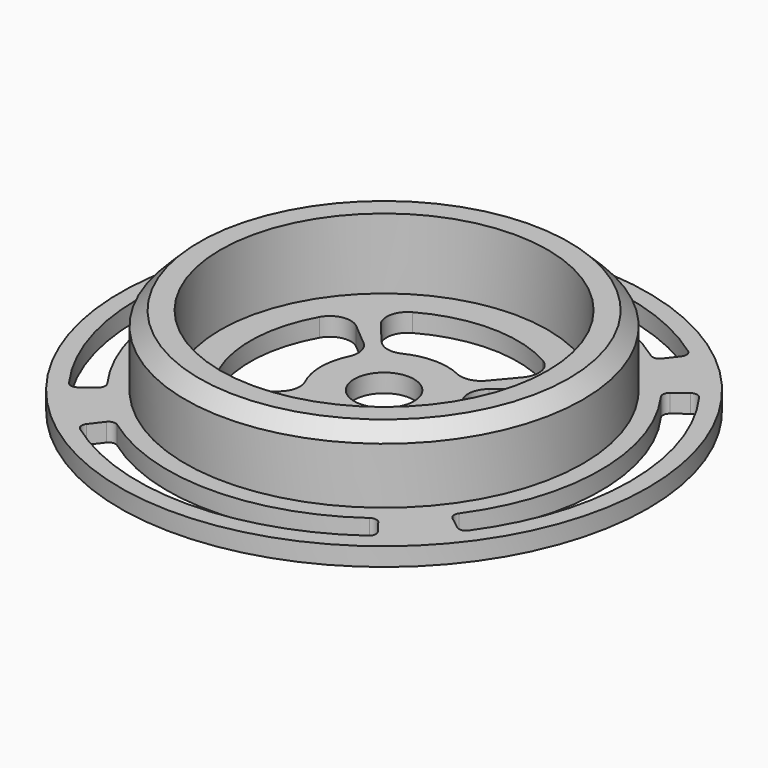
from build123d import *

# Parameters (mm, degrees)
F0_R      = 37.5
F0_R_2    = 23.25
F1_DEPTH  = 2.6
F2_R      = 28.25
F2_R_2    = 23.25
F3_DEPTH  = 10
F4_SIZE   = 2
F5_R      = 23.25
F5_R_2    = 4.25
F6_DEPTH  = 2.6
F8_DEPTH  = 2.601
F10_DEPTH = 2.601


with BuildPart() as f1:
    # F0 (on Top) → F1 (new body)
    with BuildSketch(Plane.XY):
        Circle(F0_R)
        Circle(F0_R_2, mode=Mode.SUBTRACT)
    extrude(amount=F1_DEPTH)

    # F2 (on face) → F3 (join)
    with BuildSketch(Plane.XY.offset(2.6)):
        Circle(F2_R)
        Circle(F2_R_2, mode=Mode.SUBTRACT)
    extrude(amount=F3_DEPTH)

    # F4
    f4_edges = [f1.edges().sort_by_distance(p)[0] for p in [
        (-28.25, 0, 12.6),
    ]]
    chamfer(f4_edges, length=F4_SIZE)

    # F5 (on Top) → F6 (join)
    with BuildSketch(Plane.XY):
        Circle(F5_R)
        Circle(F5_R_2, mode=Mode.SUBTRACT)
    extrude(amount=F6_DEPTH)

    # F7 (on face) → F8 (cut, through all)
    with BuildSketch(Plane.XY.offset(2.6)):
        with BuildLine():
            ThreePointArc((-3.877788, 8.121746), (0, 9), (3.877788, 8.121746))
            ThreePointArc((3.877788, 8.121746), (5.806341, 7.897177), (7.468517, 8.900632))
            Line((7.468517, 8.900632), (10.1022, 12.039333))
            ThreePointArc((10.1022, 12.039333), (10.754749, 14.509432), (9.267329, 16.586639))
            ThreePointArc((9.267329, 16.586639), (0, 19), (-9.267329, 16.586639))
            ThreePointArc((-9.267329, 16.586639), (-10.754749, 14.509432), (-10.1022, 12.039333))
            Line((-10.1022, 12.039333), (-7.468517, 8.900632))
            ThreePointArc((-7.468517, 8.900632), (-5.806341, 7.897177), (-3.877788, 8.121746))
        make_face()
        with BuildLine():
            Line((8.900632, -7.468517), (12.039333, -10.1022))
            ThreePointArc((12.039333, -10.1022), (14.509432, -10.754749), (16.586639, -9.267329))
            ThreePointArc((16.586639, -9.267329), (19, 0), (16.586639, 9.267329))
            ThreePointArc((16.586639, 9.267329), (14.509432, 10.754749), (12.039333, 10.1022))
            Line((12.039333, 10.1022), (8.900632, 7.468517))
            ThreePointArc((8.900632, 7.468517), (7.897177, 5.806341), (8.121746, 3.877788))
            ThreePointArc((8.121746, 3.877788), (9, 0), (8.121746, -3.877788))
            ThreePointArc((8.121746, -3.877788), (7.897177, -5.806341), (8.900632, -7.468517))
        make_face()
        with BuildLine():
            Line((-7.468517, -8.900632), (-10.1022, -12.039333))
            ThreePointArc((-10.1022, -12.039333), (-10.754749, -14.509432), (-9.267329, -16.586639))
            ThreePointArc((-9.267329, -16.586639), (0, -19), (9.267329, -16.586639))
            ThreePointArc((9.267329, -16.586639), (10.754749, -14.509432), (10.1022, -12.039333))
            Line((10.1022, -12.039333), (7.468517, -8.900632))
            ThreePointArc((7.468517, -8.900632), (5.806341, -7.897177), (3.877788, -8.121746))
            ThreePointArc((3.877788, -8.121746), (0, -9), (-3.877788, -8.121746))
            ThreePointArc((-3.877788, -8.121746), (-5.806341, -7.897177), (-7.468517, -8.900632))
        make_face()
        with BuildLine():
            Line((-8.900632, 7.468517), (-12.039333, 10.1022))
            ThreePointArc((-12.039333, 10.1022), (-14.509432, 10.754749), (-16.586639, 9.267329))
            ThreePointArc((-16.586639, 9.267329), (-19, 0), (-16.586639, -9.267329))
            ThreePointArc((-16.586639, -9.267329), (-14.509432, -10.754749), (-12.039333, -10.1022))
            Line((-12.039333, -10.1022), (-8.900632, -7.468517))
            ThreePointArc((-8.900632, -7.468517), (-7.897177, -5.806341), (-8.121746, -3.877788))
            ThreePointArc((-8.121746, -3.877788), (-9, 0), (-8.121746, 3.877788))
            ThreePointArc((-8.121746, 3.877788), (-7.897177, 5.806341), (-8.900632, 7.468517))
        make_face()
    extrude(amount=-F8_DEPTH, mode=Mode.SUBTRACT)

    # F9 (on face) → F10 (cut, through all)
    with BuildSketch(Plane.XY.offset(2.6)):
        with BuildLine():
            ThreePointArc((20.688934, 26.962344), (20.884999, 27.716199), (20.480745, 28.38202))
            ThreePointArc((20.480745, 28.38202), (0, 35), (-20.480745, 28.38202))
            ThreePointArc((-20.480745, 28.38202), (-20.884999, 27.716199), (-20.688934, 26.962344))
            Line((-20.688934, 26.962344), (-19.318586, 25.176472))
            ThreePointArc((-19.318586, 25.176472), (-18.671358, 24.795967), (-17.941761, 24.9731))
            ThreePointArc((-17.941761, 24.9731), (0, 30.75), (17.941761, 24.9731))
            ThreePointArc((17.941761, 24.9731), (18.671358, 24.795967), (19.318586, 25.176472))
            Line((19.318586, 25.176472), (20.688934, 26.962344))
        make_face()
        with BuildLine():
            ThreePointArc((26.962344, -20.688934), (27.716199, -20.884999), (28.38202, -20.480745))
            ThreePointArc((28.38202, -20.480745), (35, 0), (28.38202, 20.480745))
            ThreePointArc((28.38202, 20.480745), (27.716199, 20.884999), (26.962344, 20.688934))
            Line((26.962344, 20.688934), (25.176472, 19.318586))
            ThreePointArc((25.176472, 19.318586), (24.795967, 18.671358), (24.9731, 17.941761))
            ThreePointArc((24.9731, 17.941761), (30.75, 0), (24.9731, -17.941761))
            ThreePointArc((24.9731, -17.941761), (24.795967, -18.671358), (25.176472, -19.318586))
            Line((25.176472, -19.318586), (26.962344, -20.688934))
        make_face()
        with BuildLine():
            ThreePointArc((-20.688934, -26.962344), (-20.884999, -27.716199), (-20.480745, -28.38202))
            ThreePointArc((-20.480745, -28.38202), (0, -35), (20.480745, -28.38202))
            ThreePointArc((20.480745, -28.38202), (20.884999, -27.716199), (20.688934, -26.962344))
            Line((20.688934, -26.962344), (19.318586, -25.176472))
            ThreePointArc((19.318586, -25.176472), (18.671358, -24.795967), (17.941761, -24.9731))
            ThreePointArc((17.941761, -24.9731), (0, -30.75), (-17.941761, -24.9731))
            ThreePointArc((-17.941761, -24.9731), (-18.671358, -24.795967), (-19.318586, -25.176472))
            Line((-19.318586, -25.176472), (-20.688934, -26.962344))
        make_face()
        with BuildLine():
            ThreePointArc((-26.962344, 20.688934), (-27.716199, 20.884999), (-28.38202, 20.480745))
            ThreePointArc((-28.38202, 20.480745), (-35, 0), (-28.38202, -20.480745))
            ThreePointArc((-28.38202, -20.480745), (-27.716199, -20.884999), (-26.962344, -20.688934))
            Line((-26.962344, -20.688934), (-25.176472, -19.318586))
            ThreePointArc((-25.176472, -19.318586), (-24.795967, -18.671358), (-24.9731, -17.941761))
            ThreePointArc((-24.9731, -17.941761), (-30.75, 0), (-24.9731, 17.941761))
            ThreePointArc((-24.9731, 17.941761), (-24.795967, 18.671358), (-25.176472, 19.318586))
            Line((-25.176472, 19.318586), (-26.962344, 20.688934))
        make_face()
    extrude(amount=-F10_DEPTH, mode=Mode.SUBTRACT)


solid = f1.part
